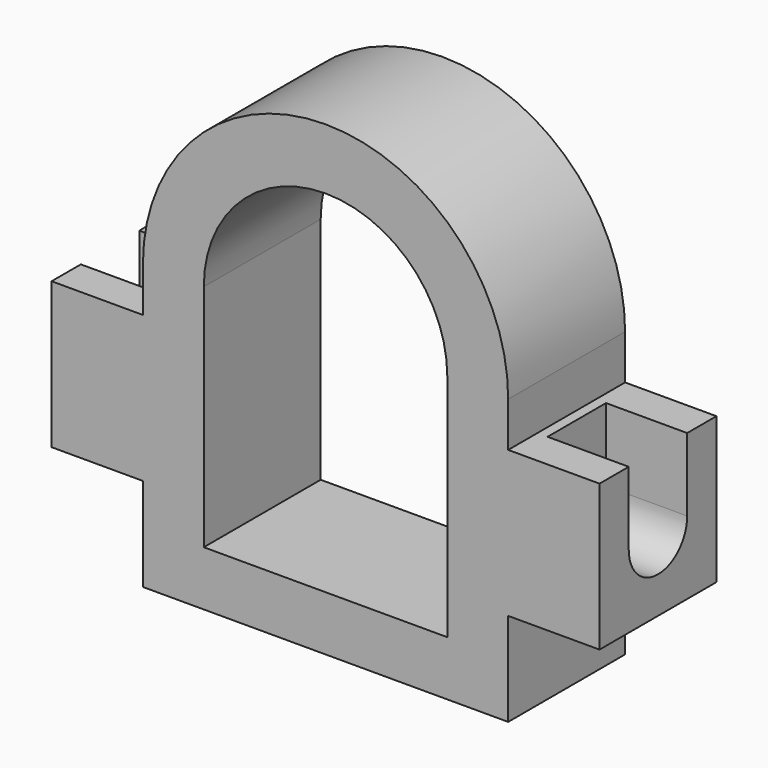
from build123d import *

# Parameters (mm, degrees)
F1_DEPTH = 36
F2_W     = 40
F2_H     = 36
F5_DEPTH = 36
F6_DEPTH = 40
F7_DEPTH = 40


with BuildPart() as f1:
    # F0 (on Front) → F1 (new body, symmetric)
    with BuildSketch(Plane.XZ):
        with BuildLine():
            Line((90, -22), (90, 0))
            ThreePointArc((90, 0), (0, 90), (-90, 0))
            Line((-90, 0), (-90, -22))
            Line((-90, -22), (-135, -22))
            Line((-135, -22), (-135, -94))
            Line((-135, -94), (-90, -94))
            Line((-90, -94), (-90, -140))
            Line((-90, -140), (90, -140))
            Line((90, -140), (90, -94))
            Line((90, -94), (135, -94))
            Line((135, -94), (135, -22))
            Line((135, -22), (90, -22))
        make_face()
        with BuildLine():
            ThreePointArc((-60, 0), (0, 60), (60, 0))
            Line((60, 0), (60, -113))
            Line((60, -113), (-60, -113))
            Line((-60, -113), (-60, 0))
        make_face(mode=Mode.SUBTRACT)
    extrude(amount=F1_DEPTH, both=True)

    # F2 (on face) → F5 (cut)
    with BuildSketch(Plane.XY.offset(-22)):
        with Locations((-115, 0)):
            Rectangle(F2_W, F2_H)
        with Locations((115, 0)):
            Rectangle(F2_W, F2_H)
    extrude(amount=-F5_DEPTH, mode=Mode.SUBTRACT)

    # F3 (on face) → F6 (cut)
    with BuildSketch(Plane(origin=(-135, 0, 0), x_dir=(0, -1, 0), z_dir=(-1, 0, 0))):
        with BuildLine():
            Line((18, -58), (-18, -58))
            ThreePointArc((-18, -58), (0, -76), (18, -58))
        make_face()
    extrude(amount=-F6_DEPTH, mode=Mode.SUBTRACT)

    # F4 (on face) → F7 (cut)
    with BuildSketch(Plane.YZ.offset(135)):
        with BuildLine():
            ThreePointArc((-18, -58), (0, -76), (18, -58))
            Line((18, -58), (-18, -58))
        make_face()
    extrude(amount=-F7_DEPTH, mode=Mode.SUBTRACT)


solid = f1.part
